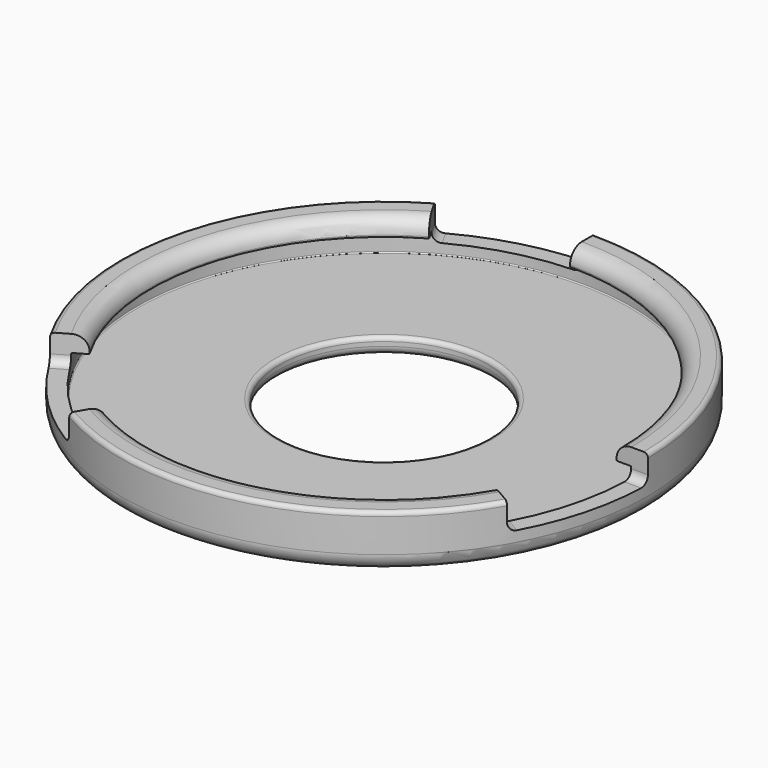
from build123d import *

# Parameters (mm, degrees)
F5_DEPTH = 25
F6_R     = 1


with BuildPart() as f2:
    # F0 (on Front) → F2 (revolve)
    with BuildSketch(Plane.XZ):
        with BuildLine():
            ThreePointArc((12.5, 1), (12.792893, 0.292893), (13.5, 0))
            Line((13.5, 0), (29.5, 0))
            ThreePointArc((29.5, 0), (30.914214, 0.585786), (31.5, 2))
            Line((31.5, 2), (31.5, 6))
            ThreePointArc((31.5, 6), (31.353553, 6.353553), (31, 6.5))
            Line((31, 6.5), (29.5, 6.5))
            ThreePointArc((29.5, 6.5), (28.262563, 5.987437), (27.75, 4.75))
            Line((27.75, 4.75), (27.75, 4.625))
            ThreePointArc((27.75, 4.625), (27.786612, 4.536612), (27.875, 4.5))
            Line((27.875, 4.5), (29.375, 4.5))
            ThreePointArc((29.375, 4.5), (29.463388, 4.463388), (29.5, 4.375))
            Line((29.5, 4.375), (29.5, 2.125))
            ThreePointArc((29.5, 2.125), (29.463388, 2.036612), (29.375, 2))
            Line((29.375, 2), (13, 2))
            ThreePointArc((13, 2), (12.646447, 1.853553), (12.5, 1.5))
            Line((12.5, 1.5), (12.5, 1))
        make_face()
    revolve(axis=Axis((0, 0, 17.760679), (0, 0, 1)))

    # F4 (on offset) → F5 (cut)
    with BuildSketch(Plane.XY.offset(3.25)):
        Polygon((-25, 43.30127), (0, 0), (0, 50), align=None)
        Polygon((50, 0), (0, 0), (43.30127, -25), align=None)
        Polygon((-25, -43.30127), (0, 0), (-43.30127, -25), align=None)
    extrude(amount=F5_DEPTH, mode=Mode.SUBTRACT)

    # F6
    f6_edges = [f2.edges().sort_by_distance(p)[0] for p in [
        (0, 30.5, 3.25),
        (-15.25, 26.413775, 3.25),
        (30.5, 0, 3.25),
        (26.413775, -15.25, 3.25),
        (-15.25, -26.413775, 3.25),
        (-26.413775, -15.25, 3.25),
    ]]
    fillet(f6_edges, radius=F6_R)


solid = f2.part
